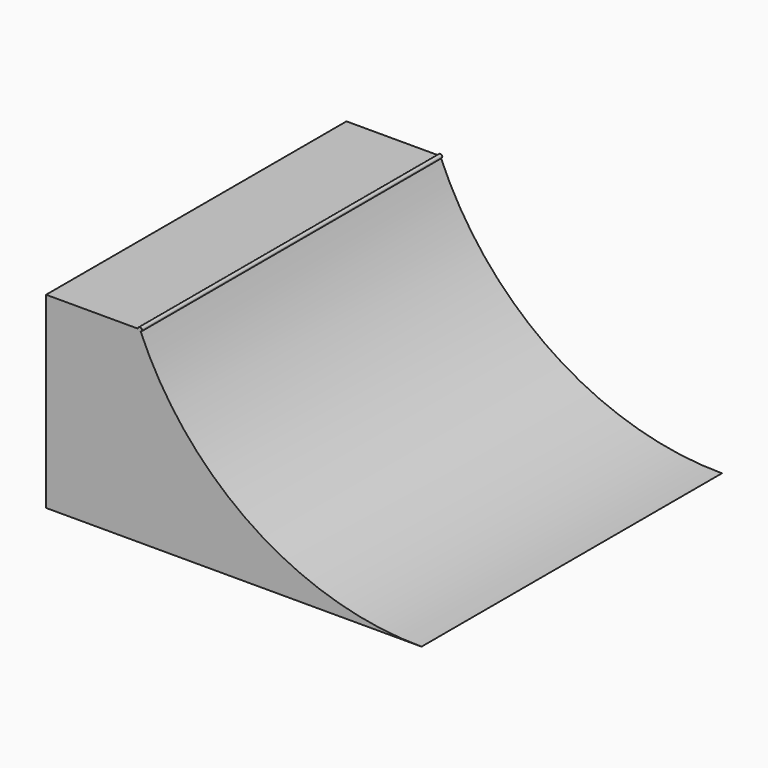
from build123d import *

# Parameters (mm, degrees)
F1_DEPTH = 1219.2


with BuildPart() as f1:
    # F0 (on Front) → F1 (new body, symmetric)
    with BuildSketch(Plane.XZ):
        with BuildLine():
            Line((-2438.4, 0), (0, 0))
            ThreePointArc((0, 0), (-1093.6828645922, 329.2280778121), (-1823.8778357404, 1207.4926391103))
            ThreePointArc((-1823.8778357404, 1207.4926391103), (-1835.8277490672, 1208.6216852454), (-1841.5, 1219.2))
            Line((-1841.5, 1219.2), (-2438.4, 1219.2))
            Line((-2438.4, 1219.2), (-2438.4, 0))
        make_face()
        with BuildLine():
            Line((-1828.8, 1219.2), (-1816.1, 1219.2))
            ThreePointArc((-1816.1, 1219.2), (-1828.8, 1231.9), (-1841.5, 1219.2))
            Line((-1841.5, 1219.2), (-1828.8, 1219.2))
        make_face()
        with BuildLine():
            ThreePointArc((-1828.8, 1219.2), (-1826.3482987924, 1213.3423755031), (-1823.8778357404, 1207.4926391103))
            ThreePointArc((-1823.8778357404, 1207.4926391103), (-1818.2216852454, 1212.1722509328), (-1816.1, 1219.2))
            Line((-1816.1, 1219.2), (-1828.8, 1219.2))
        make_face()
        with BuildLine():
            ThreePointArc((-1841.5, 1219.2), (-1835.8277490672, 1208.6216852454), (-1823.8778357404, 1207.4926391103))
            ThreePointArc((-1823.8778357404, 1207.4926391103), (-1826.3482987924, 1213.3423755031), (-1828.8, 1219.2))
            Line((-1828.8, 1219.2), (-1841.5, 1219.2))
        make_face()
    extrude(amount=F1_DEPTH, both=True)


solid = f1.part
